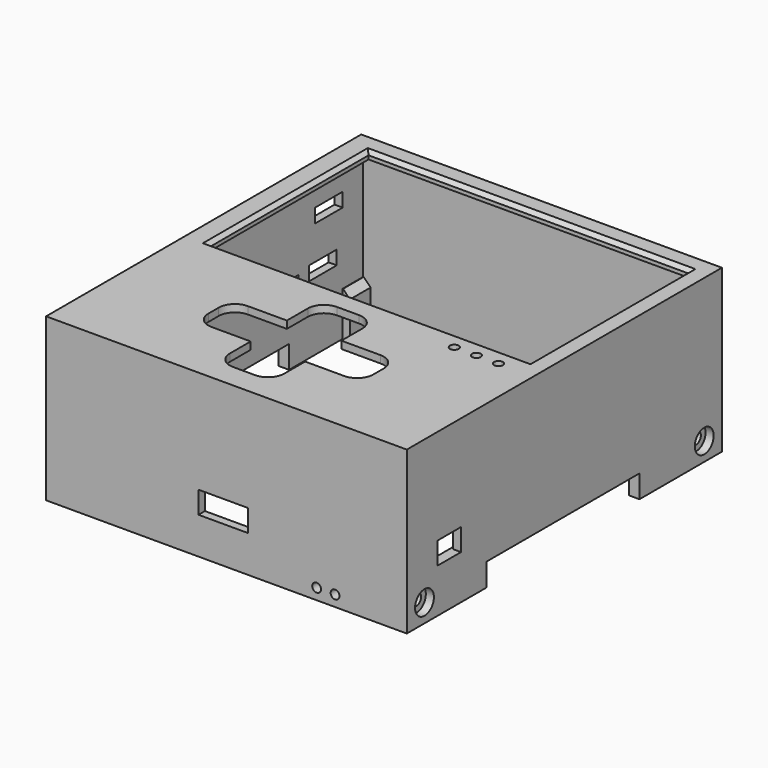
from build123d import *

# Parameters (mm, degrees)
SKETCH023_W     = 98
SKETCH023_H     = 107
PAD018_DEPTH    = 44
SKETCH024_W     = 92.4
SKETCH024_H     = 101.4
POCKET003_DEPTH = 42
SKETCH025_W     = 2.8
SKETCH025_H     = 52
POCKET004_DEPTH = 6.2
SKETCH026_W     = 87
SKETCH026_H     = 54
POCKET005_DEPTH = 2
SKETCH027_W     = 7
SKETCH027_H     = 12
PAD019_DEPTH    = 2
SKETCH028_W     = 7
SKETCH028_H     = 12
PAD020_DEPTH    = 2
SKETCH029_R     = 1.6
POCKET006_DEPTH = 98.001
SKETCH030_R     = 3.2
POCKET007_DEPTH = 2.2
SKETCH031_R     = 3.2
POCKET008_DEPTH = 2.2
SKETCH032_W     = 9.4
SKETCH032_H     = 3.8
SKETCH032_W_2   = 7.8
SKETCH032_H_2   = 3
SKETCH032_W_3   = 7
SKETCH032_H_3   = 7
POCKET009_DEPTH = 2.8
SKETCH033_W     = 13.4
SKETCH033_H     = 6
POCKET010_DEPTH = 2.8
SKETCH040_R     = 1.2
POCKET011_DEPTH = 2
SKETCH043_W     = 8
SKETCH043_H     = 6
POCKET013_DEPTH = 5
SKETCH044_W     = 20
SKETCH044_H     = 6
POCKET014_DEPTH = 0.6
SKETCH045_W     = 21
SKETCH045_H     = 7
POCKET015_DEPTH = 0.6
CHAMFER_SIZE    = 1
SKETCH047_W     = 15.4
SKETCH047_H     = 17
POCKET016_DEPTH = 0.6
CHAMFER001_SIZE = 1.9
SKETCH057_R     = 1.2
POCKET021_DEPTH = 3
POCKET023_DEPTH = 0.6
FILLET_R        = 0.4


with BuildPart() as part:
    # Sketch023 → Pad018 (new body)
    with BuildSketch(Plane.XY.offset(27)):
        with Locations((0.5, 0.5)):
            Rectangle(SKETCH023_W, SKETCH023_H)
    extrude(amount=-PAD018_DEPTH)

    # Sketch024 (on Face6 of Pad018) → Pocket003 (cut)
    with BuildSketch(Plane(origin=(0, 0, -17), x_dir=(1, 0, 0), z_dir=(0, 0, -1))):
        with Locations((0.5, -0.5)):
            Rectangle(SKETCH024_W, SKETCH024_H)
    extrude(amount=-POCKET003_DEPTH, mode=Mode.SUBTRACT)

    # Sketch025 (on Face5 of Pocket003) → Pocket004 (cut)
    with BuildSketch(Plane(origin=(0, 0, -17), x_dir=(1, 0, 0), z_dir=(0, 0, -1))):
        with Locations((-47.1, 0)):
            Rectangle(SKETCH025_W, SKETCH025_H)
        with Locations((48.1, 0)):
            Rectangle(SKETCH025_W, SKETCH025_H)
    extrude(amount=-POCKET004_DEPTH, mode=Mode.SUBTRACT)

    # Sketch026 (on Face4 of Pocket004) → Pocket005 (cut)
    with BuildSketch(Plane.XY.offset(27)):
        with Locations((1, 22)):
            Rectangle(SKETCH026_W, SKETCH026_H)
    extrude(amount=-POCKET005_DEPTH, mode=Mode.SUBTRACT)

    # Sketch027 (on Face18 of Pocket005) → Pad019 (join)
    with BuildSketch(Plane.YZ.offset(-45.7)):
        with Locations((-46.7, -11)):
            Rectangle(SKETCH027_W, SKETCH027_H)
        with Locations((47.7, -11)):
            Rectangle(SKETCH027_W, SKETCH027_H)
    extrude(amount=PAD019_DEPTH)

    # Sketch028 (on Face21 of Pad019) → Pad020 (join)
    with BuildSketch(Plane(origin=(46.7, 0, 0), x_dir=(0, -1, 0), z_dir=(-1, 0, 0))):
        with Locations((-47.7, -11)):
            Rectangle(SKETCH028_W, SKETCH028_H)
        with Locations((46.7, -11)):
            Rectangle(SKETCH028_W, SKETCH028_H)
    extrude(amount=PAD020_DEPTH)

    # Sketch029 (on Face3 of Pad020) → Pocket006 (cut, through all)
    with BuildSketch(Plane.YZ.offset(49.5)):
        with Locations((-47, -12)):
            Circle(SKETCH029_R)
        with Locations((48, -12)):
            Circle(SKETCH029_R)
    extrude(amount=-POCKET006_DEPTH, mode=Mode.SUBTRACT)

    # Sketch030 (on Face3 of Pocket006) → Pocket007 (cut)
    with BuildSketch(Plane.YZ.offset(49.5)):
        with Locations((48, -12)):
            Circle(SKETCH030_R)
        with Locations((-47, -12)):
            Circle(SKETCH030_R)
    extrude(amount=-POCKET007_DEPTH, mode=Mode.SUBTRACT)

    # Sketch031 (on Face2 of Pocket007) → Pocket008 (cut)
    with BuildSketch(Plane(origin=(-48.5, 0, 0), x_dir=(0, -1, 0), z_dir=(-1, 0, 0))):
        with Locations((47, -12)):
            Circle(SKETCH031_R)
        with Locations((-48, -12)):
            Circle(SKETCH031_R)
    extrude(amount=-POCKET008_DEPTH, mode=Mode.SUBTRACT)

    # Sketch032 (on Face2 of Pocket008) → Pocket009 (cut)
    with BuildSketch(Plane(origin=(-48.5, 0, 0), x_dir=(0, -1, 0), z_dir=(-1, 0, 0))):
        with Locations((-39.5, 16.3)):
            Rectangle(SKETCH032_W, SKETCH032_H)
        with Locations((-37.5, 3.3)):
            Rectangle(SKETCH032_W, SKETCH032_H)
        with Locations((-25.3, 2.9)):
            Rectangle(SKETCH032_W_2, SKETCH032_H_2)
        with Locations((30.1, 14.1)):
            Rectangle(SKETCH032_W_3, SKETCH032_H_3)
    extrude(amount=-POCKET009_DEPTH, mode=Mode.SUBTRACT)

    # Sketch033 (on Face6 of Pocket009) → Pocket010 (cut)
    with BuildSketch(Plane.XZ.offset(53)):
        with Locations((-0.4, -4)):
            Rectangle(SKETCH033_W, SKETCH033_H)
    extrude(amount=-POCKET010_DEPTH, mode=Mode.SUBTRACT)

    # Sketch040 (on Face4 of Pocket010) → Pocket011 (cut)
    with BuildSketch(Plane.XY.offset(27)):
        with Locations((28, -10)):
            Circle(SKETCH040_R)
        with Locations((34, -10)):
            Circle(SKETCH040_R)
        with Locations((40, -10)):
            Circle(SKETCH040_R)
        with BuildLine():
            Line((-18, -22.6), (-7.4, -22.6))
            Line((-7.4, -22.6), (-7.4, -15.5))
            ThreePointArc((-3, -11.1), (-6.11127, -12.38873), (-7.4, -15.5))
            Line((-3, -11.1), (3, -11.1))
            ThreePointArc((7.4, -15.5), (6.11127, -12.38873), (3, -11.1))
            Line((7.4, -15.5), (7.4, -22.6))
            Line((7.4, -22.6), (18, -22.6))
            ThreePointArc((22.4, -27), (21.11127, -23.88873), (18, -22.6))
            Line((22.4, -27), (22.4, -30.5))
            ThreePointArc((18, -34.9), (21.11127, -33.61127), (22.4, -30.5))
            Line((18, -34.9), (7.4, -34.9))
            Line((7.4, -34.9), (7.4, -42))
            ThreePointArc((3, -46.4), (6.11127, -45.11127), (7.4, -42))
            Line((3, -46.4), (-3, -46.4))
            ThreePointArc((-7.4, -42), (-6.11127, -45.11127), (-3, -46.4))
            Line((-7.4, -42), (-7.4, -34.9))
            Line((-7.4, -34.9), (-18, -34.9))
            ThreePointArc((-22.4, -30.5), (-21.11127, -33.61127), (-18, -34.9))
            Line((-22.4, -30.5), (-22.4, -27))
            ThreePointArc((-18, -22.6), (-21.11127, -23.88873), (-22.4, -27))
        make_face()
    extrude(amount=-POCKET011_DEPTH, mode=Mode.SUBTRACT)

    # Sketch043 (on Face3 of Pocket011) → Pocket013 (cut)
    with BuildSketch(Plane.YZ.offset(49.5)):
        with Locations((-38.6, -2)):
            Rectangle(SKETCH043_W, SKETCH043_H)
    extrude(amount=-POCKET013_DEPTH, mode=Mode.SUBTRACT)

    # Sketch044 (on Face69 of Pocket013) → Pocket014 (cut)
    with BuildSketch(Plane(origin=(46.7, 0, 0), x_dir=(0, -1, 0), z_dir=(-1, 0, 0))):
        with Locations((38.6, -2)):
            Rectangle(SKETCH044_W, SKETCH044_H)
    extrude(amount=-POCKET014_DEPTH, mode=Mode.SUBTRACT)

    # Sketch045 (on Face66 of Pocket014) → Pocket015 (cut)
    with BuildSketch(Plane.YZ.offset(-45.7)):
        with Locations((-30.1, 14.1)):
            Rectangle(SKETCH045_W, SKETCH045_H)
    extrude(amount=-POCKET015_DEPTH, mode=Mode.SUBTRACT)

    # Chamfer
    chamfer_edges = [part.edges().sort_by_distance(p)[0] for p in [
        (-42.5, 22, 27),
        (1, 49, 27),
        (44.5, 22, 27),
        (1, -5, 27),
    ]]
    chamfer(chamfer_edges, length=CHAMFER_SIZE)

    # Sketch047 (on Face81 of Chamfer) → Pocket016 (cut)
    with BuildSketch(Plane(origin=(0, -50.2, 0), x_dir=(-1, 0, 0), z_dir=(0, 1, 0))):
        with Locations((0.4, -8.5)):
            Rectangle(SKETCH047_W, SKETCH047_H)
    extrude(amount=-POCKET016_DEPTH, mode=Mode.SUBTRACT)

    # Chamfer001
    chamfer001_edges = [part.edges().sort_by_distance(p)[0] for p in [
        (-43.7, -46.7, -5),
        (-43.7, 47.7, -5),
        (44.7, 47.7, -5),
        (44.7, -46.7, -5),
    ]]
    chamfer(chamfer001_edges, length=CHAMFER001_SIZE)

    # Sketch057 (on Face90 of Chamfer001) → Pocket021 (cut)
    with BuildSketch(Plane.XZ.offset(53)):
        with Locations((25, -14)):
            Circle(SKETCH057_R)
        with Locations((30, -14)):
            Circle(SKETCH057_R)
    extrude(amount=-POCKET021_DEPTH, mode=Mode.SUBTRACT)

    # Sketch059 (on Face15 of Pocket021) → Pocket023 (cut)
    with BuildSketch(Plane(origin=(-48.5, 0, 0), x_dir=(0, -1, 0), z_dir=(-1, 0, 0))):
        with BuildLine():
            Line((-44.2, 21.6), (-34.8, 21.6))
            ThreePointArc((-31.4, 18.2), (-32.395837, 20.604163), (-34.8, 21.6))
            Line((-31.4, 11.2), (-31.4, 18.2))
            ThreePointArc((-31.4, 11.2), (-30.404163, 8.795837), (-28, 7.8))
            Line((-21.4, 7.8), (-28, 7.8))
            ThreePointArc((-18, 4.4), (-18.995837, 6.804163), (-21.4, 7.8))
            Line((-18, 4.4), (-18, 1.4))
            ThreePointArc((-21.4, -2), (-18.995837, -1.004163), (-18, 1.4))
            Line((-21.4, -2), (-44.2, -2))
            ThreePointArc((-47.6, 1.4), (-46.604163, -1.004163), (-44.2, -2))
            Line((-47.6, 1.4), (-47.6, 18.2))
            ThreePointArc((-44.2, 21.6), (-46.604163, 20.604163), (-47.6, 18.2))
        make_face()
    extrude(amount=-POCKET023_DEPTH, mode=Mode.SUBTRACT)

    # Fillet
    fillet_edges = [part.edges().sort_by_distance(p)[0] for p in [
        (-48.5, 32.8, -2),
        (-48.5, 18.995837, -1.004163),
        (-48.5, 18, 2.9),
        (-48.5, 18.995837, 6.804163),
        (-48.5, 24.7, 7.8),
        (-48.5, 30.404163, 8.795837),
        (-48.5, 31.4, 14.7),
        (-48.5, 32.395837, 20.604163),
        (-48.5, 39.5, 21.6),
        (-48.5, 46.604163, 20.604163),
        (-48.5, 47.6, 9.8),
        (-48.5, 46.604163, -1.004163),
    ]]
    fillet(fillet_edges, radius=FILLET_R)


solid = part.part
